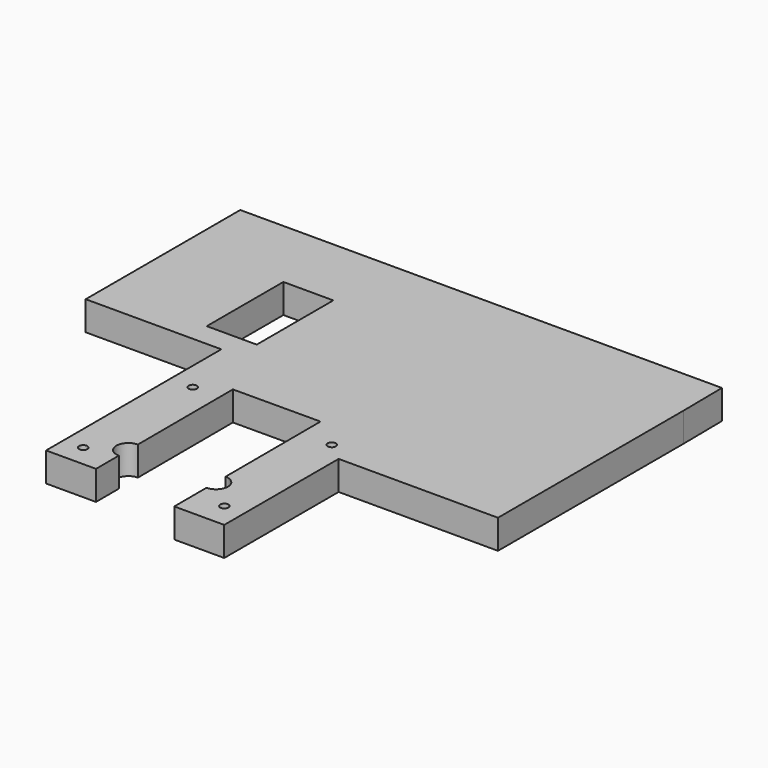
from build123d import *

# Parameters (mm, degrees)
F0_W     = 8
F0_H     = 6
F0_H_2   = 5.6374937892
F0_W_2   = 4
F0_H_3   = 23
F1_DEPTH = 7
F2_D     = 2
F3_D     = 5.75


with BuildPart() as f1:
    # F0 (on Top) → F1 (new body)
    with BuildSketch(Plane.XY):
        Polygon((10.5, -45), (22.5, -45), (22.5, -10.6539065018), (22.5, 17.153987661), (0, 45), (-14.5, 45), (-14.5, 39), (-14.5, 16), (-14.5, 10.3625062108), (-22.5, 10.3625062108), (-22.5, -42.25), (-10.5080957781, -42.25), (-10.6281967604, -1.0001864958), (10.3717142302, -0.9390441602), align=None)
        Polygon((0, 45), (22.5, 17.153987661), (22.5, 45), align=None)
        Polygon((-30.5, 39), (-30.5, 45), (-55.0723059862, 45), (-55.0723059862, 10.3625062108), (-30.5, 10.3625062108), (-30.5, 16), align=None)
        with Locations((-26.5, 42)):
            Rectangle(F0_W, F0_H)
        Polygon((-14.5, 39), (-14.5, 45), (-22.5, 45), (-22.5, 39), (-18.5, 39), align=None)
        Polygon((-22.5, 16), (-22.5, 10.3625062108), (-14.5, 10.3625062108), (-14.5, 16), (-18.5, 16), align=None)
        with Locations((-26.5, 13.1812531054)):
            Rectangle(F0_W, F0_H_2)
        Polygon((22.5, 17.153987661), (22.5, -10.6539065018), (60.7781559229, -10.6539065018), (60.7781559229, 45), (22.5, 45), align=None)
        Polygon((0, 45), (22.5, 45), (60.7781559229, 45), (60.6384575367, 56.7700602114), (-55.0723059862, 56.7700602114), (-55.0723059862, 45), (-30.5, 45), (-22.5, 45), (-14.5, 45), align=None)
        with Locations((-16.5, 27.5)):
            Rectangle(F0_W_2, F0_H_3)
    extrude(amount=F1_DEPTH)

    # F2 (through all)
    with Locations(Plane(origin=(0, 0, 0), x_dir=(1, 0, 0), z_dir=(0, 0, -1))):
        with Locations((-17.0669870824, 5), (-17.7734121563, 37), (17.7265878437, 39), (17.9330129176, 7)):
            Hole(F2_D / 2)

    # F3 (through all)
    with Locations(Plane(origin=(0, 0, 0), x_dir=(1, 0, 0), z_dir=(0, 0, -1))):
        with Locations((-10.5364832571, 32.5000529818), (10.4634277335, 32.4389106462)):
            Hole(F3_D / 2)


solid = f1.part
